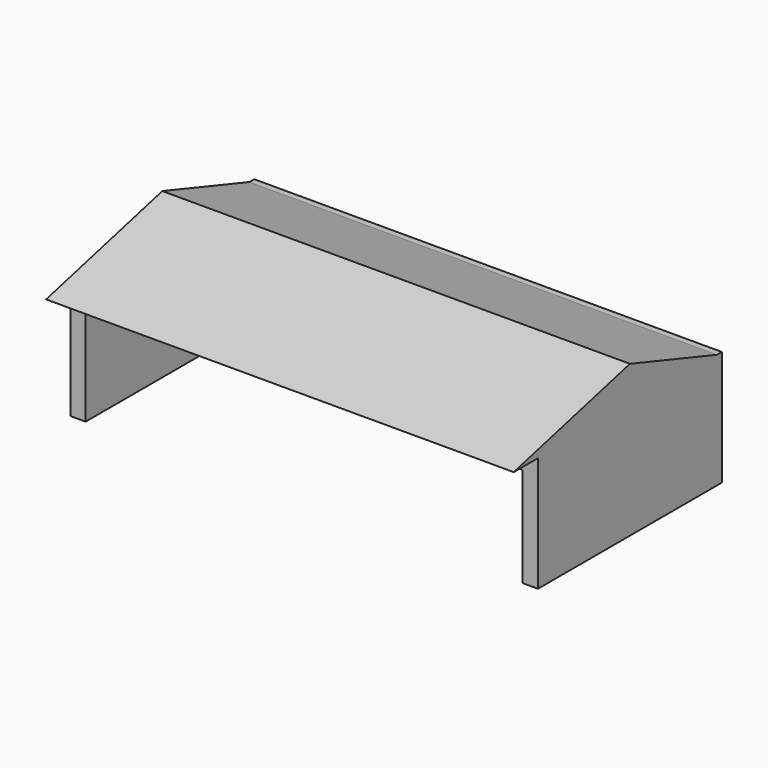
from build123d import *

# Parameters (mm, degrees)
F0_W     = 12200
F0_H     = 6000
F1_DEPTH = 3000
F3_DEPTH = 12200
F4_W     = 11400
F4_H     = 2600
F5_DEPTH = 5600
F7_DEPTH = 18300


with BuildPart() as f1:
    # F0 (on Top) → F1 (new body)
    with BuildSketch(Plane.XY):
        with Locations((6100, -3000)):
            Rectangle(F0_W, F0_H)
    extrude(amount=F1_DEPTH)

    # F2 (on face) → F3 (join)
    with BuildSketch(Plane(origin=(0, 0, 0), x_dir=(0, -1, 0), z_dir=(-1, 0, 0))):
        Polygon((3000, 4000), (0, 3000), (7000, 3000), align=None)
    extrude(amount=-F3_DEPTH)

    # F4 (on face) → F5 (cut)
    with BuildSketch(Plane.XZ.offset(6000)):
        with Locations((6100, 1300)):
            Rectangle(F4_W, F4_H)
    extrude(amount=-F5_DEPTH, mode=Mode.SUBTRACT)

    # F6 (on face) → F7 (cut)
    with BuildSketch(Plane(origin=(0, 0, 0), x_dir=(0, -1, 0), z_dir=(-1, 0, 0))):
        Polygon((3000, 4000), (0, 3000), (158.113883, 3000), (3000, 3947.295372), (6789.181489, 3000), (7000, 3000), align=None)
    extrude(amount=-F7_DEPTH, mode=Mode.SUBTRACT)


solid = f1.part
